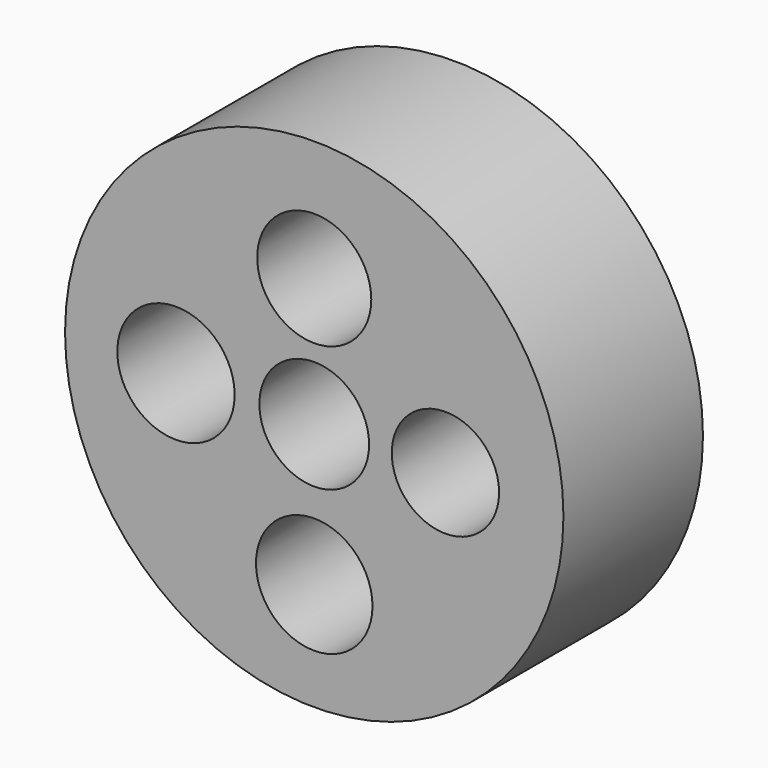
from build123d import *

# Parameters (mm, degrees)
F0_R     = 36.6576669804
F0_R_2   = 32.6402559025
F0_R_3   = 8.5697598479
F0_R_4   = 8.6296556848
F0_R_5   = 8.0708127358
F0_R_6   = 7.8935022325
F0_R_7   = 8.3883706744
F1_DEPTH = 25.4
F2_DEPTH = 0.254


with BuildPart() as f1:
    # F0 (on Front) → F1 (new body)
    with BuildSketch(Plane.XZ):
        Circle(F0_R)
        Circle(F0_R_2, mode=Mode.SUBTRACT)
        Circle(F0_R_2)
        with Locations((0, -20.7587890327)):
            Circle(F0_R_3, mode=Mode.SUBTRACT)
        with Locations((-20.3415248543, 0)):
            Circle(F0_R_4, mode=Mode.SUBTRACT)
        Circle(F0_R_5, mode=Mode.SUBTRACT)
        with Locations((19.2983709276, 0)):
            Circle(F0_R_6, mode=Mode.SUBTRACT)
        with Locations((0, 18.8811086118)):
            Circle(F0_R_7, mode=Mode.SUBTRACT)
    extrude(amount=F1_DEPTH)

    # F2 (add): a face of the model
    f2_faces = [f1.faces().sort_by_distance(p)[0] for p in [
        (-9.6065952441, -25.4, -20.7587890327),
    ]]
    extrude(f2_faces, amount=F2_DEPTH)


solid = f1.part
